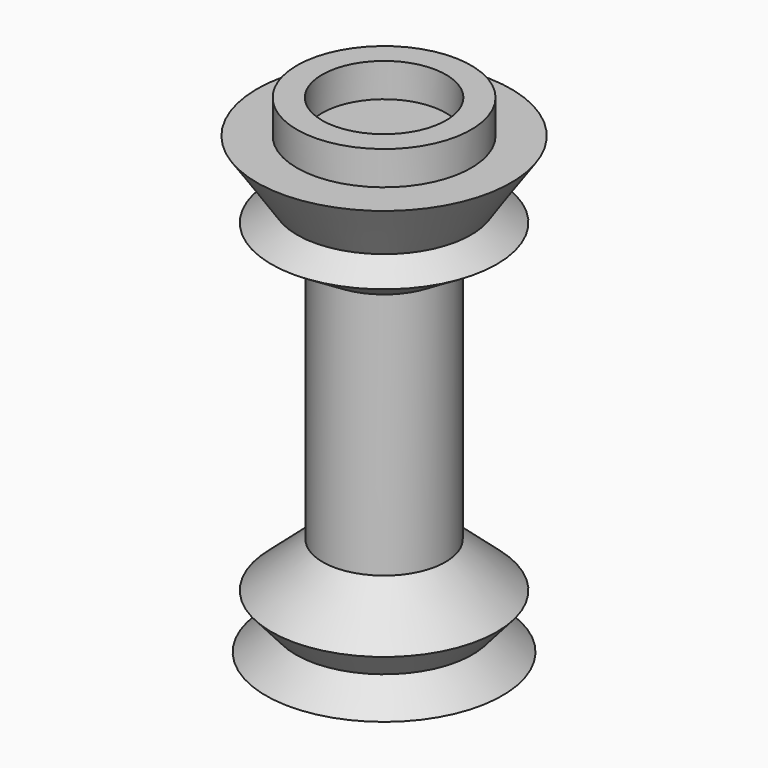
from build123d import *

# Parameters (mm, degrees)
F0_W = 23.53953
F0_H = 31.575338


with BuildPart() as f1:
    # F0 (on Front) → F1 (revolve)
    with BuildSketch(Plane.XZ):
        Polygon((0, -342.900006), (0, 82.724656), (-58.029232, 82.724656), (-81.568762, 82.724656), (-119.018393, 82.724656), (-81.475385, 27.549231), (-105.595883, 11.136923), (-57.541642, -18.170769), (-57.541642, -250.007569), (-105.595883, -292.055042), (-82.647693, -318.281537), (-110.783078, -342.900006), align=None)
        with Locations((-69.798997, 98.512325)):
            Rectangle(F0_W, F0_H)
    revolve(axis=Axis((0, 0, -1.758462), (0, 0, -1)))


solid = f1.part
